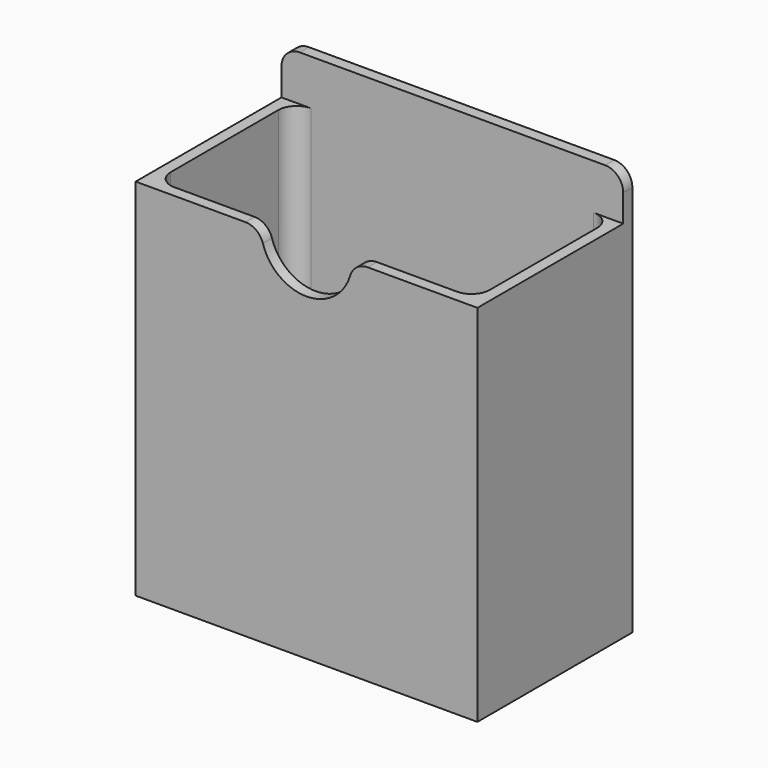
from build123d import *

# Parameters (mm, degrees)
F0_W     = 95.25
F0_H     = 53.975
F1_DEPTH = 2.032
F2_W     = 95.25
F2_H     = 53.975
F2_W_2   = 88.9
F2_H_2   = 47.625
F3_DEPTH = 99.568
F4_W     = 95.25
F4_H     = 3.175
F5_DEPTH = 12.7
F6_R     = 5.08
F7_R     = 5.08
F8_R     = 12.7
F9_DEPTH = 6.35
F10_R    = 5.08


with BuildPart() as f1:
    # F0 (on Top) → F1 (new body)
    with BuildSketch(Plane.XY):
        with Locations((47.625, 26.9875)):
            Rectangle(F0_W, F0_H)
    extrude(amount=F1_DEPTH)

    # F2 (on face) → F3 (join)
    with BuildSketch(Plane.XY.offset(2.032)):
        with Locations((47.625, 26.9875)):
            Rectangle(F2_W, F2_H)
        with Locations((47.625, 26.9875)):
            Rectangle(F2_W_2, F2_H_2, mode=Mode.SUBTRACT)
    extrude(amount=F3_DEPTH)

    # F4 (on face) → F5 (join)
    with BuildSketch(Plane.XY.offset(101.6)):
        with Locations((47.625, 52.3875)):
            Rectangle(F4_W, F4_H)
    extrude(amount=F5_DEPTH)

    # F6
    f6_edges = [f1.edges().sort_by_distance(p)[0] for p in [
        (0, 52.3875, 114.3),
        (95.25, 52.3875, 114.3),
    ]]
    fillet(f6_edges, radius=F6_R)

    # F7
    f7_edges = [f1.edges().sort_by_distance(p)[0] for p in [
        (92.075, 50.8, 51.816),
        (3.175, 50.8, 51.816),
        (3.175, 3.175, 51.816),
        (92.075, 3.175, 51.816),
    ]]
    fillet(f7_edges, radius=F7_R)

    # F8 (on face) → F9 (cut)
    with BuildSketch(Plane.XZ):
        with Locations((47.625, 101.6)):
            Circle(F8_R)
    extrude(amount=-F9_DEPTH, mode=Mode.SUBTRACT)

    # F10
    f10_edges = [f1.edges().sort_by_distance(p)[0] for p in [
        (60.325, 1.5875, 101.6),
        (34.925, 1.5875, 101.6),
    ]]
    fillet(f10_edges, radius=F10_R)


solid = f1.part
